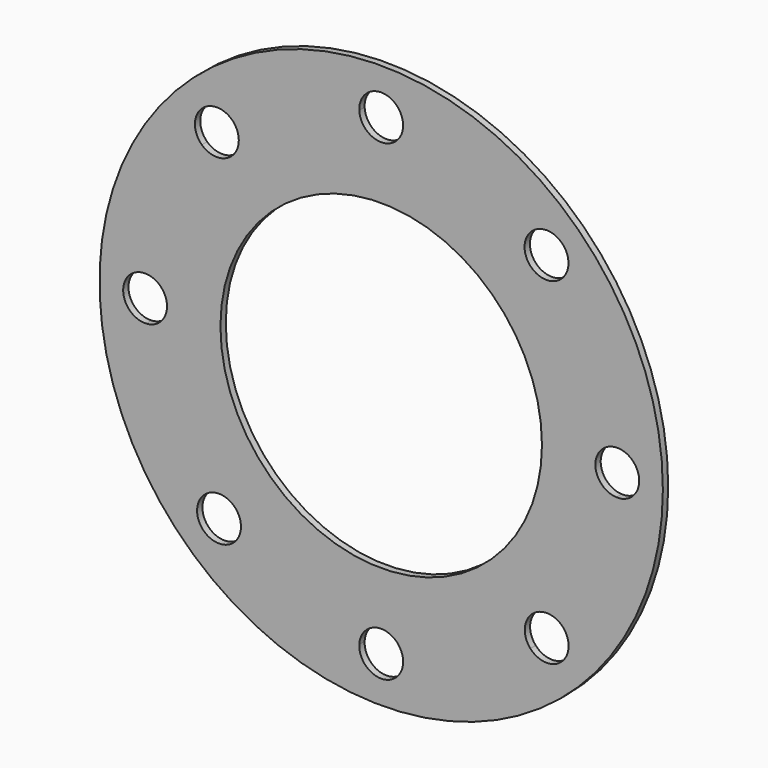
from build123d import *

# Parameters (mm, degrees)
F0_R     = 1072.030298
F0_R_2   = 611.822699
F1_DEPTH = 25.4


with BuildPart() as f1:
    # F0 (on Front) → F1 (new body)
    with BuildSketch(Plane.XZ):
        with Locations((-942.916393, 928.723931)):
            Circle(F0_R)
        with BuildLine():
            ThreePointArc((-256.979817, 1509.177653), (-114.439323, 1276.662508), (-48.218266, 1012.095208))
            ThreePointArc((-48.218266, 1012.095208), (13.287158, 989.094833), (39.119088, 928.723931))
            ThreePointArc((39.119088, 928.723931), (13.287158, 868.35303), (-48.218266, 845.352655))
            ThreePointArc((-48.218266, 845.352655), (-114.232258, 581.278808), (-256.288936, 349.087628))
            ThreePointArc((-256.288936, 349.087628), (-236.540161, 321.2736), (-229.569062, 287.881414))
            ThreePointArc((-229.569062, 287.881414), (-283.226515, 209.922949), (-375.205908, 232.203785))
            ThreePointArc((-375.205908, 232.203785), (-602.629025, 97.074957), (-859.545117, 34.025804))
            ThreePointArc((-859.545117, 34.025804), (-859.477581, 32.088314), (-859.455065, 30.149778))
            ThreePointArc((-859.455065, 30.149778), (-944.854929, -53.289034), (-1026.28767, 34.025804))
            ThreePointArc((-1026.28767, 34.025804), (-1277.041513, 94.580111), (-1500.258634, 223.879881))
            ThreePointArc((-1500.258634, 223.879881), (-1617.710343, 221.696416), (-1621.005834, 339.122185))
            ThreePointArc((-1621.005834, 339.122185), (-1769.041388, 575.237011), (-1837.614521, 845.352655))
            ThreePointArc((-1837.614521, 845.352655), (-1924.951875, 928.723931), (-1837.614521, 1012.095208))
            ThreePointArc((-1837.614521, 1012.095208), (-1770.388782, 1279.045148), (-1625.500919, 1513.115816))
            ThreePointArc((-1625.500919, 1513.115816), (-1626.425841, 1633.854077), (-1505.774898, 1629.170798))
            ThreePointArc((-1505.774898, 1629.170798), (-1280.313223, 1761.549777), (-1026.28767, 1823.422059))
            ThreePointArc((-1026.28767, 1823.422059), (-944.854929, 1910.736897), (-859.455065, 1827.298085))
            ThreePointArc((-859.455065, 1827.298085), (-859.477581, 1825.359549), (-859.545117, 1823.422059))
            ThreePointArc((-859.545117, 1823.422059), (-603.119602, 1760.573467), (-376.027937, 1625.91328))
            ThreePointArc((-376.027937, 1625.91328), (-284.007196, 1648.386079), (-230.252699, 1570.390582))
            ThreePointArc((-230.252699, 1570.390582), (-237.225774, 1536.99387), (-256.979817, 1509.177653))
        make_face(mode=Mode.SUBTRACT)
        with BuildLine():
            ThreePointArc((-48.218266, 845.352655), (-127.803568, 928.723931), (-48.218266, 1012.095208))
            ThreePointArc((-48.218266, 1012.095208), (-114.439323, 1276.662508), (-256.979817, 1509.177653))
            ThreePointArc((-256.979817, 1509.177653), (-372.148477, 1510.798566), (-376.027937, 1625.91328))
            ThreePointArc((-376.027937, 1625.91328), (-603.119602, 1760.573467), (-859.545117, 1823.422059))
            ThreePointArc((-859.545117, 1823.422059), (-942.916393, 1743.836757), (-1026.28767, 1823.422059))
            ThreePointArc((-1026.28767, 1823.422059), (-1280.313223, 1761.549777), (-1505.774898, 1629.170798))
            ThreePointArc((-1505.774898, 1629.170798), (-1490.274163, 1603.459337), (-1484.874345, 1573.926406))
            ThreePointArc((-1484.874345, 1573.926406), (-1535.209355, 1497.32066), (-1625.500919, 1513.115816))
            ThreePointArc((-1625.500919, 1513.115816), (-1770.388782, 1279.045148), (-1837.614521, 1012.095208))
            ThreePointArc((-1837.614521, 1012.095208), (-1781.119645, 986.353329), (-1758.029219, 928.723931))
            ThreePointArc((-1758.029219, 928.723931), (-1781.119645, 871.094533), (-1837.614521, 845.352655))
            ThreePointArc((-1837.614521, 845.352655), (-1769.041388, 575.237011), (-1621.005834, 339.122185))
            ThreePointArc((-1621.005834, 339.122185), (-1529.415826, 359.694218), (-1476.62528, 282.072723))
            ThreePointArc((-1476.62528, 282.072723), (-1482.759008, 250.668335), (-1500.258634, 223.879881))
            ThreePointArc((-1500.258634, 223.879881), (-1277.041513, 94.580111), (-1026.28767, 34.025804))
            ThreePointArc((-1026.28767, 34.025804), (-942.916393, 113.611106), (-859.545117, 34.025804))
            ThreePointArc((-859.545117, 34.025804), (-602.629025, 97.074957), (-375.205908, 232.203785))
            ThreePointArc((-375.205908, 232.203785), (-371.535437, 347.404122), (-256.288936, 349.087628))
            ThreePointArc((-256.288936, 349.087628), (-114.232258, 581.278808), (-48.218266, 845.352655))
        make_face()
        with Locations((-942.916393, 928.723931)):
            Circle(F0_R_2, mode=Mode.SUBTRACT)
    extrude(amount=F1_DEPTH)


solid = f1.part
